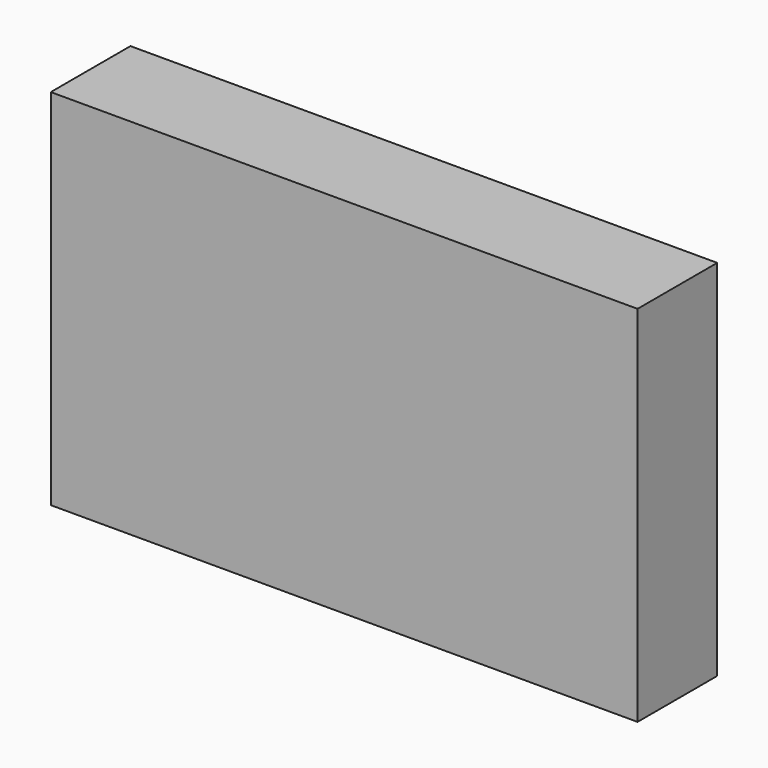
from build123d import *

# Parameters (mm, degrees)
F1_DEPTH = 25.4


with BuildPart() as f1:
    # F0 (on Front) → F1 (new body)
    with BuildSketch(Plane.XZ):
        Polygon((10.531767, -27.35116), (-25.936443, 36.468212), (-33.795971, -27.35116), align=None)
        Polygon((-33.795971, -27.35116), (-25.936443, 36.468212), (-75.294286, 36.468212), align=None)
        Polygon((-33.795971, -27.35116), (-75.294286, 36.468212), (-75.294286, -27.35116), align=None)
        Polygon((10.531767, -27.35116), (-33.795971, -27.35116), (-75.294286, -27.35116), (-75.294286, -56.274224), (-43.541789, -56.274224), (74.351139, -56.274224), (74.351139, -27.35116), align=None)
        Polygon((74.351139, -27.35116), (38.51169, 36.468212), (10.531767, -27.35116), align=None)
        Polygon((74.351139, 36.468212), (38.51169, 36.468212), (74.351139, -27.35116), (74.351139, -20.749155), align=None)
        Polygon((38.51169, 36.468212), (-25.936443, 36.468212), (10.531767, -27.35116), align=None)
    extrude(amount=F1_DEPTH)


solid = f1.part
